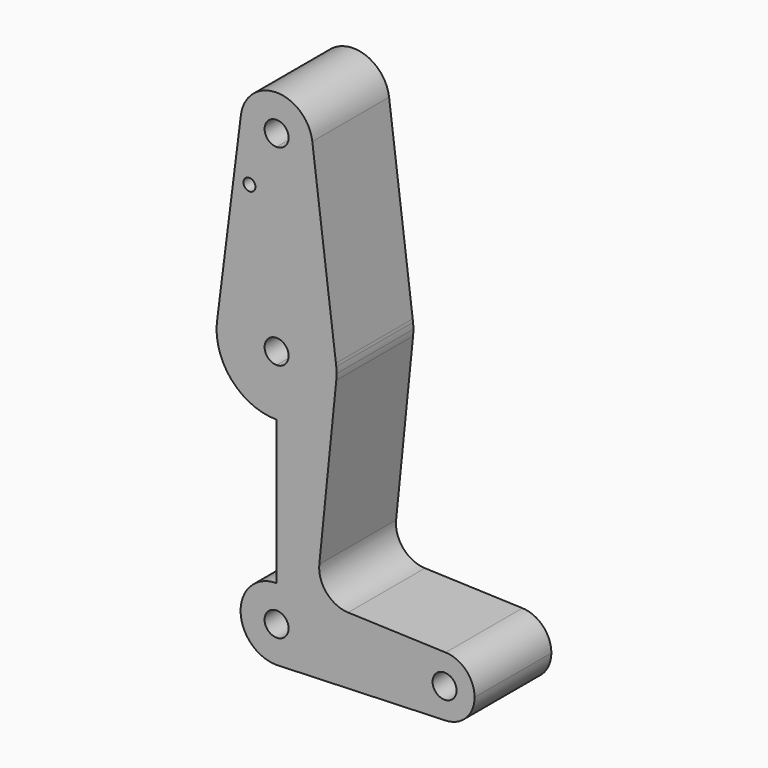
from build123d import *

# Parameters (mm, degrees)
F0_R     = 1.5875
F1_DEPTH = 25.4


with BuildPart() as f1:
    # F0 (on Front) → F1 (new body)
    with BuildSketch(Plane.XZ):
        with BuildLine():
            Line((3.175, 0), (9.525, 0))
            ThreePointArc((9.525, 0), (6.7351920908, 6.7351920908), (0, 9.525))
            Line((0, 9.525), (0, 3.175))
            ThreePointArc((0, 3.175), (2.2450640303, 2.2450640303), (3.175, 0))
        make_face()
        with BuildLine():
            Line((36.5125, 0), (9.525, 0))
            ThreePointArc((9.525, 0), (6.9705567315, -6.4912990883), (0.6773435479, -9.500885786))
            Line((0.6773435479, -9.500885786), (44.7324052746, -7.9324746146))
            ThreePointArc((44.7324052746, -7.9324746146), (38.9380895153, -5.7116327839), (36.5125, 0))
        make_face()
        with BuildLine():
            ThreePointArc((0.6773435479, -9.500885786), (6.9705567315, -6.4912990883), (9.525, 0))
            Line((9.525, 0), (3.175, 0))
            ThreePointArc((3.175, 0), (-2.2450640303, -2.2450640303), (0, 3.175))
            Line((0, 3.175), (0, 9.525))
            ThreePointArc((0, 9.525), (-9.525, 0), (0, -9.525))
            Line((0, -9.525), (0.6773435479, -9.500885786))
        make_face()
        with BuildLine():
            ThreePointArc((0, 9.525), (6.7351920908, 6.7351920908), (9.525, 0))
            Line((9.525, 0), (36.5125, 0))
            ThreePointArc((36.5125, 0), (38.9380895153, 5.7116327839), (44.7324052746, 7.9324746146))
            Line((44.7324052746, 7.9324746146), (18.9341027877, 8.850924033))
            ThreePointArc((18.9341027877, 8.850924033), (13.2249738114, 11.5709798305), (11.3072231466, 17.5971800924))
            Line((11.3072231466, 17.5971800924), (15.7942028036, 61.9003804205))
            ThreePointArc((15.7942028036, 61.9003804205), (10.644756084, 51.722700101), (0, 47.625))
            Line((0, 47.625), (0, 9.525))
        make_face()
        with BuildLine():
            ThreePointArc((0, -9.525), (0.3388863295, -9.5189695375), (0.6773435479, -9.500885786))
            Line((0.6773435479, -9.500885786), (0, -9.525))
        make_face()
        with BuildLine():
            ThreePointArc((44.7324052746, 7.9324746146), (38.9380895153, 5.7116327839), (36.5125, 0))
            ThreePointArc((36.5125, 0), (38.9380895153, -5.7116327839), (44.7324052746, -7.9324746146))
            ThreePointArc((44.7324052746, -7.9324746146), (50.1616327839, -5.5119104847), (52.3875, 0))
            ThreePointArc((52.3875, 0), (50.1616327839, 5.5119104847), (44.7324052746, 7.9324746146))
        make_face()
        with BuildLine():
            ThreePointArc((47.625, 0), (44.45, -3.175), (41.275, 0))
            ThreePointArc((41.275, 0), (44.45, 3.175), (47.625, 0))
        make_face(mode=Mode.SUBTRACT)
        with BuildLine():
            Line((0, 60.325), (0, 47.625))
            ThreePointArc((0, 47.625), (10.644756084, 51.722700101), (15.7942028036, 61.9003804205))
            Line((15.7942028036, 61.9003804205), (15.7942028036, 65.0996195795))
            Line((15.7942028036, 65.0996195795), (15.6978424192, 65.8650303134))
            ThreePointArc((15.6978424192, 65.8650303134), (10.3554519161, 75.5324661069), (0, 79.375))
            Line((0, 79.375), (0, 66.675))
            ThreePointArc((0, 66.675), (2.2450640303, 65.7450640303), (3.175, 63.5))
            ThreePointArc((3.175, 63.5), (2.2450640303, 61.2549359697), (0, 60.325))
        make_face()
        with BuildLine():
            ThreePointArc((-15.7501779217, 61.5131632086), (-10.4993950049, 51.5929294311), (0, 47.625))
            Line((0, 47.625), (0, 60.325))
            ThreePointArc((0, 60.325), (-3.175, 63.5), (0, 66.675))
            Line((0, 66.675), (0, 79.375))
            ThreePointArc((0, 79.375), (-10.4993950049, 75.4070705689), (-15.7501779217, 65.4868367914))
            Line((-15.7501779217, 65.4868367914), (-15.7501779217, 61.5131632086))
        make_face()
        with BuildLine():
            ThreePointArc((-15.7501779217, 65.4868367914), (-15.875, 63.5), (-15.7501779217, 61.5131632086))
            Line((-15.7501779217, 61.5131632086), (-15.7501779217, 65.4868367914))
        make_face()
        with BuildLine():
            Line((15.7942028036, 65.0996195795), (15.7942028036, 61.9003804205))
            ThreePointArc((15.7942028036, 61.9003804205), (15.8547878338, 62.6991705884), (15.875, 63.5))
            ThreePointArc((15.875, 63.5), (15.8547878338, 64.3008294116), (15.7942028036, 65.0996195795))
        make_face()
        with BuildLine():
            Line((-9.4907647262, 115.1068518528), (-15.7501779217, 65.4868367914))
            ThreePointArc((-15.7501779217, 65.4868367914), (-10.4993950049, 75.4070705689), (0, 79.375))
            Line((0, 79.375), (0, 104.775))
            ThreePointArc((0, 104.775), (-7.0146592539, 107.8563845125), (-9.4907647262, 115.1068518528))
        make_face()
        with Locations((-7.1771577932, 100.0252)):
            Circle(F0_R, mode=Mode.SUBTRACT)
        with BuildLine():
            Line((15.6978424192, 65.8650303134), (15.7942028036, 65.0996195795))
            ThreePointArc((15.7942028036, 65.0996195795), (15.7506727309, 65.4829103672), (15.6978424192, 65.8650303134))
        make_face()
        with BuildLine():
            Line((0, 104.775), (0, 79.375))
            ThreePointArc((0, 79.375), (10.3554519161, 75.5324661069), (15.6978424192, 65.8650303134))
            Line((15.6978424192, 65.8650303134), (9.4504036385, 115.4897462203))
            ThreePointArc((9.4504036385, 115.4897462203), (9.5063326172, 114.8960412498), (9.525, 114.3))
            ThreePointArc((9.525, 114.3), (6.7351920908, 107.5648079092), (0, 104.775))
        make_face()
        with BuildLine():
            Line((-9.393817197, 115.8753804205), (-9.4907647262, 115.1068518528))
            ThreePointArc((-9.4907647262, 115.1068518528), (-7.0146592539, 107.8563845125), (0, 104.775))
            ThreePointArc((0, 104.775), (6.7351920908, 107.5648079092), (9.525, 114.3))
            ThreePointArc((9.525, 114.3), (9.5063326172, 114.8960412498), (9.4504036385, 115.4897462203))
            ThreePointArc((9.4504036385, 115.4897462203), (0.1948818628, 123.8230061461), (-9.393817197, 115.8753804205))
        make_face()
        with BuildLine():
            ThreePointArc((3.175, 114.3), (2.2450640303, 112.0549359697), (0, 111.125))
            ThreePointArc((0, 111.125), (-2.2450640303, 116.5450640303), (3.175, 114.3))
        make_face(mode=Mode.SUBTRACT)
        with BuildLine():
            ThreePointArc((-9.393817197, 115.8753804205), (-9.450106753, 115.4921020748), (-9.4907647262, 115.1068518528))
            Line((-9.4907647262, 115.1068518528), (-9.393817197, 115.8753804205))
        make_face()
    extrude(amount=F1_DEPTH)


solid = f1.part
